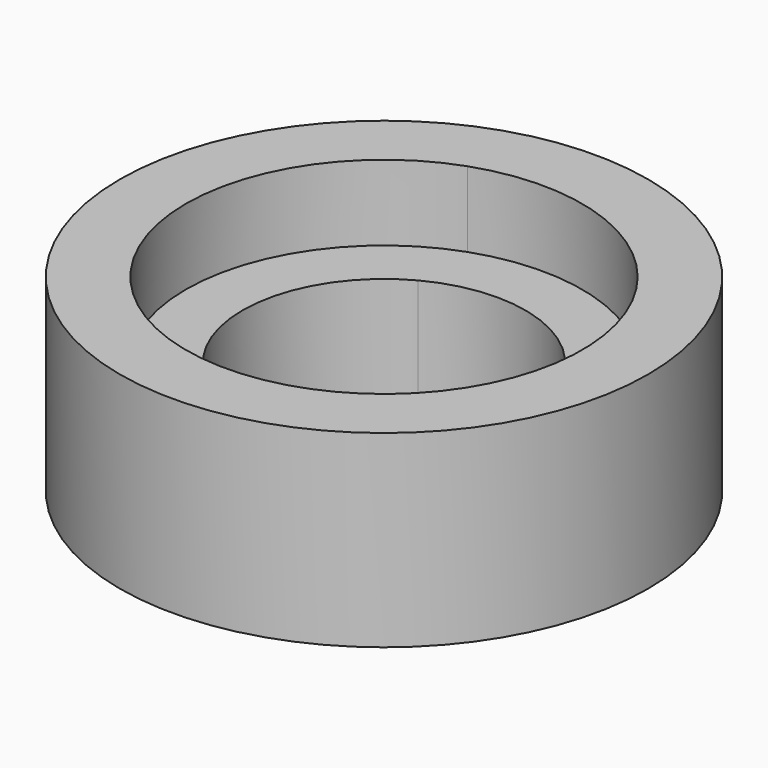
from build123d import *

# Parameters (mm, degrees)
F0_R     = 7
F1_DEPTH = 5
F2_DEPTH = 3


with BuildPart() as f1:
    # F0 (on Top) → F1 (new body)
    with BuildSketch(Plane.XY):
        Circle(F0_R)
        with BuildLine():
            ThreePointArc((-1.75, -4.9497474683), (-5.25, 0), (-1.75, 4.9497474683))
            ThreePointArc((-1.75, 4.9497474683), (3.0310889132, 4.2866070499), (5.25, 0))
            ThreePointArc((5.25, 0), (3.0310889132, -4.2866070499), (-1.75, -4.9497474683))
        make_face(mode=Mode.SUBTRACT)
    extrude(amount=F1_DEPTH)

    # F0 (on Top) → F2 (join)
    with BuildSketch(Plane.XY):
        with BuildLine():
            ThreePointArc((-1.75, 3.3166247904), (1.9364916731, 3.2113081447), (3.75, 0))
            ThreePointArc((3.75, 0), (1.9364916731, -3.2113081447), (-1.75, -3.3166247904))
            Line((-1.75, -3.3166247904), (-1.75, -4.9497474683))
            ThreePointArc((-1.75, -4.9497474683), (3.0310889132, -4.2866070499), (5.25, 0))
            ThreePointArc((5.25, 0), (3.0310889132, 4.2866070499), (-1.75, 4.9497474683))
            Line((-1.75, 4.9497474683), (-1.75, 3.3166247904))
        make_face()
        with BuildLine():
            ThreePointArc((-1.75, -3.3166247904), (-3.75, 0), (-1.75, 3.3166247904))
            Line((-1.75, 3.3166247904), (-1.75, 4.9497474683))
            ThreePointArc((-1.75, 4.9497474683), (-5.25, 0), (-1.75, -4.9497474683))
            Line((-1.75, -4.9497474683), (-1.75, -3.3166247904))
        make_face()
    extrude(amount=F2_DEPTH)


solid = f1.part
